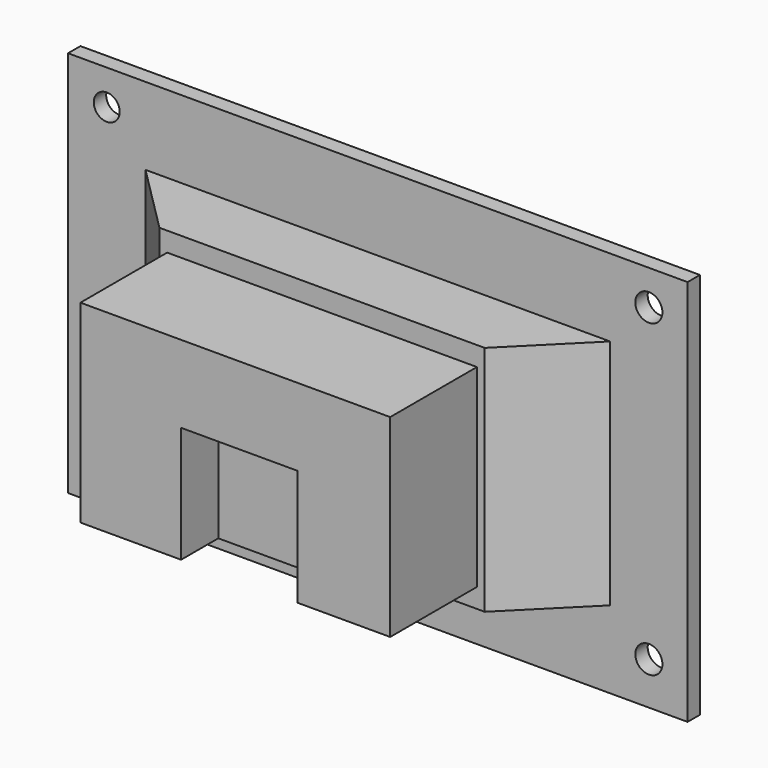
from build123d import *

# Parameters (mm, degrees)
SKETCH_W         = 40
SKETCH_H         = 25
PAD_DEPTH        = 25
SKETCH002_W      = 15
SKETCH002_H      = 15
POCKET_DEPTH     = 6
SKETCH003_W      = 60
SKETCH003_H      = 30
PAD001_DEPTH     = 11
CHAMFER_SIZE     = 9
CHAMFER_FACE12_W = 2
CHAMFER_FACE12_H = 30
PAD002_DEPTH     = 10
PAD002_FACE10_W  = 2
PAD002_FACE10_H  = 30
PAD003_DEPTH     = 10
SKETCH004_W      = 80
SKETCH004_H      = 2
PAD004_DEPTH     = 10
PAD004_FACE23_W  = 2
PAD004_FACE23_H  = 80
PAD005_DEPTH     = 50
SKETCH005_R      = 1.675
SKETCH005_R_2    = 1.75
POCKET001_DEPTH  = 5


with BuildPart() as part:
    # Sketch → Pad (new body)
    with BuildSketch(Plane.XY):
        with Locations((20, 12.5)):
            Rectangle(SKETCH_W, SKETCH_H)
    extrude(amount=PAD_DEPTH)

    # Sketch002 (on Face1 of Pad) → Pocket (cut)
    with BuildSketch(Plane.XZ):
        with Locations((20.5, 7.5)):
            Rectangle(SKETCH002_W, SKETCH002_H)
    extrude(amount=-POCKET_DEPTH, mode=Mode.SUBTRACT)

    # Sketch003 (on Face9 of Pocket) → Pad001 (join)
    with BuildSketch(Plane(origin=(0, 25, 0), x_dir=(-1, 0, 0), z_dir=(0, 1, 0))):
        with Locations((-20, 12.5)):
            Rectangle(SKETCH003_W, SKETCH003_H)
    extrude(amount=-PAD001_DEPTH)

    # Chamfer
    chamfer_edges = [part.edges().sort_by_distance(p)[0] for p in [
        (-10, 14, 12.5),
        (50, 14, 12.5),
    ]]
    chamfer(chamfer_edges, length=CHAMFER_SIZE)

    # Chamfer Face12 → Pad002 (add)
    with BuildSketch(Plane(origin=(50, 24, 12.5), x_dir=(0, -1, 0), z_dir=(1, 0, 0))):
        Rectangle(CHAMFER_FACE12_W, CHAMFER_FACE12_H)
    extrude(amount=PAD002_DEPTH)

    # Pad002 Face10 → Pad003 (add)
    with BuildSketch(Plane(origin=(-10, 24, 12.5), x_dir=(0, 1, 0), z_dir=(-1, 0, 0))):
        Rectangle(PAD002_FACE10_W, PAD002_FACE10_H)
    extrude(amount=PAD003_DEPTH)

    # Sketch004 (on Face18 of Pad003) → Pad004 (join)
    with BuildSketch(Plane(origin=(0, 0, -2.5), x_dir=(1, 0, 0), z_dir=(0, 0, -1))):
        with Locations((20, -24)):
            Rectangle(SKETCH004_W, SKETCH004_H)
    extrude(amount=PAD004_DEPTH)

    # Pad004 Face23 → Pad005 (add)
    with BuildSketch(Plane(origin=(20, 24, -12.5), x_dir=(0, -1, 0), z_dir=(0, 0, -1))):
        Rectangle(PAD004_FACE23_W, PAD004_FACE23_H)
    extrude(amount=-PAD005_DEPTH)

    # Sketch005 (on Face2 of Pad005) → Pocket001 (cut)
    with BuildSketch(Plane.XZ.offset(-23)):
        with Locations((-15, 33)):
            Circle(SKETCH005_R)
        with Locations((-15, -7)):
            Circle(SKETCH005_R_2)
        with Locations((55, 33)):
            Circle(SKETCH005_R_2)
        with Locations((55, -7)):
            Circle(SKETCH005_R_2)
    extrude(amount=-POCKET001_DEPTH, mode=Mode.SUBTRACT)


solid = part.part
